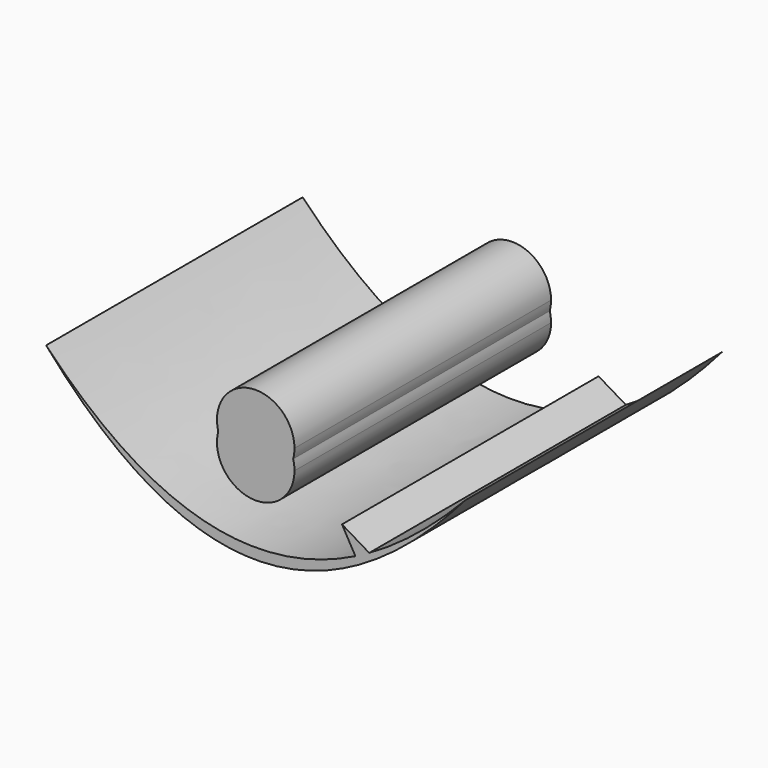
from build123d import *

# Parameters (mm, degrees)
F1_DEPTH = 25


with BuildPart() as f1:
    # F0 (on Front) → F1 (new body)
    with BuildSketch(Plane.XZ):
        with BuildLine():
            add(Edge.make_bspline(
                [(25.1893661916, -6.0507666302), (27.6868790121, -4.6337748478), (30.1843918325, -2.6168526378), (32.681904653, 0)],
                knots=[25.1893661916, 25.1893661916, 25.1893661916, 25.1893661916, 32.681904653, 32.681904653, 32.681904653, 32.681904653], degree=3))
            add(Edge.make_bspline(
                [(24.1117389364, -6.6249397749), (24.4709480215, -6.4459589633), (24.8301571066, -6.2545679151), (25.1893661916, -6.0507666302)],
                knots=[24.1117389364, 24.1117389364, 24.1117389364, 24.1117389364, 25.1893661916, 25.1893661916, 25.1893661916, 25.1893661916], degree=3))
            Line((24.1117389364, -6.6249397749), (24.3938389779, -7.1221539996))
            add(Edge.make_bspline(
                [(24.3938389779, -7.1221539996), (27.1565275363, -5.5547118017), (29.9192160946, -3.1806604685), (32.681904653, 0)],
                knots=[24.3938389779, 24.3938389779, 24.3938389779, 24.3938389779, 32.681904653, 32.681904653, 32.681904653, 32.681904653], degree=3))
        make_face()
        with BuildLine():
            add(Edge.make_bspline(
                [(24.1117389364, -6.6249397749), (24.4709480215, -6.4459589633), (24.8301571066, -6.2545679151), (25.1893661916, -6.0507666302)],
                knots=[24.1117389364, 24.1117389364, 24.1117389364, 24.1117389364, 25.1893661916, 25.1893661916, 25.1893661916, 25.1893661916], degree=3))
            Line((25.1893661916, -6.0507666302), (23.066070649, -4.7819015963))
            Line((23.066070649, -4.7819015963), (24.1117389364, -6.6249397749))
        make_face()
        with BuildLine():
            Line((24.3938389779, -7.1221539996), (24.1117389364, -6.6249397749))
            add(Edge.make_bspline(
                [(0, 0), (8.0372463121, -8.4212937928), (16.0744926243, -10.6296070511), (24.1117389364, -6.6249397749)],
                knots=[0, 0, 0, 0, 24.1117389364, 24.1117389364, 24.1117389364, 24.1117389364], degree=3))
            add(Edge.make_bspline(
                [(0, 0), (8.1312796593, -9.3614749635), (16.2625593186, -11.7355262967), (24.3938389779, -7.1221539996)],
                knots=[0, 0, 0, 0, 24.3938389779, 24.3938389779, 24.3938389779, 24.3938389779], degree=3))
        make_face()
    extrude(amount=F1_DEPTH)


with BuildPart() as f1b:
    # F0 (on Front) → F1, piece 2 (new body)
    with BuildSketch(Plane.XZ):
        with BuildLine():
            ThreePointArc((19.2614262365, -1.5364169219), (19.3368225108, -1.1529820089), (19.3620955482, -0.7630227747))
            ThreePointArc((19.3620955482, -0.7630227747), (15.9509930924, 2.2328474096), (13.4204784165, -1.5364169219))
            ThreePointArc((13.4204784165, -1.5364169219), (16.3409523265, 0.7113321526), (19.2614262365, -1.5364169219))
        make_face()
        with BuildLine():
            ThreePointArc((19.2614262365, -1.5364169219), (16.3409523265, 0.7113321526), (13.4204784165, -1.5364169219))
            ThreePointArc((13.4204784165, -1.5364169219), (16.3409523265, -3.7841659964), (19.2614262365, -1.5364169219))
        make_face()
        with BuildLine():
            ThreePointArc((19.2614262365, -1.5364169219), (16.3409523265, -3.7841659964), (13.4204784165, -1.5364169219))
            ThreePointArc((13.4204784165, -1.5364169219), (15.9509930924, -5.3056812534), (19.3620955482, -2.3098110691))
            ThreePointArc((19.3620955482, -2.3098110691), (19.3368225108, -1.9198518349), (19.2614262365, -1.5364169219))
        make_face()
    extrude(amount=F1_DEPTH)


solid = Compound([f1.part, f1b.part])
